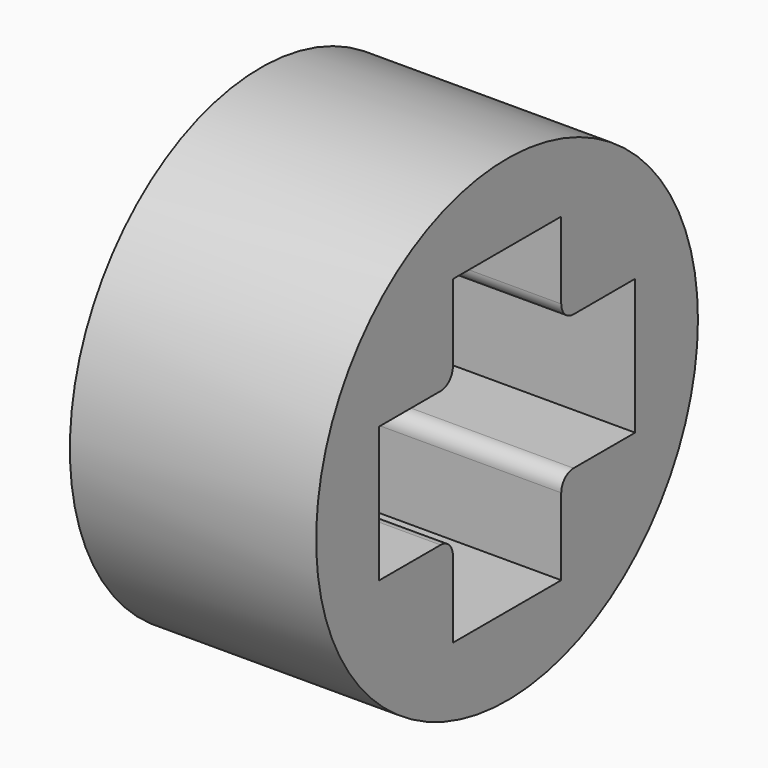
from build123d import *

# Parameters (mm, degrees)
F0_R     = 3.875
F1_DEPTH = 4
F2_R     = 0.25


with BuildPart() as f1:
    # F0 (on Right) → F1 (new body)
    with BuildSketch(Plane.YZ):
        Circle(F0_R)
        Polygon((-1.1, 2.6), (1.1, 2.6), (1.1, 1.1), (2.6, 1.1), (2.6, -1.1), (1.1, -1.1), (1.1, -2.6), (-1.1, -2.6), (-1.1, -1.1), (-2.6, -1.1), (-2.6, 1.1), (-1.1, 1.1), align=None, mode=Mode.SUBTRACT)
    extrude(amount=F1_DEPTH)

    # F2
    f2_edges = [f1.edges().sort_by_distance(p)[0] for p in [
        (2, 1.1, -1.1),
        (2, 1.1, 1.1),
        (2, -1.1, -1.1),
        (2, -1.1, 1.1),
    ]]
    fillet(f2_edges, radius=F2_R)


solid = f1.part
